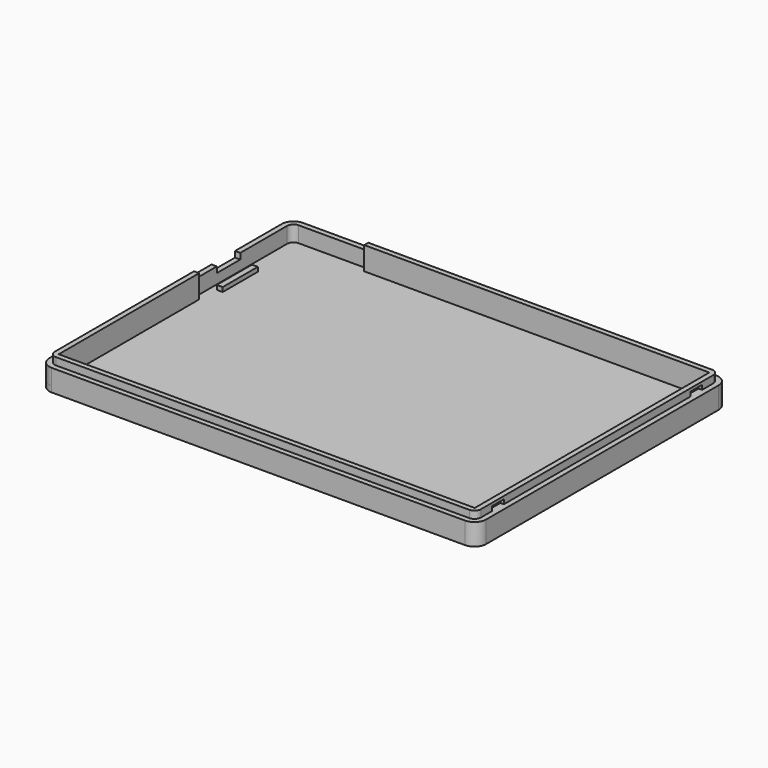
from build123d import *

# Parameters (mm, degrees)
PAD_DEPTH       = 2
PAD001_DEPTH    = 5.4
PAD002_DEPTH    = 7.9
SKETCH003_W     = 10
SKETCH003_H     = 2
POCKET_DEPTH    = 1.8
SKETCH004_W     = 2
SKETCH004_H     = 15
PAD003_DEPTH    = 1.5
SKETCH005_W     = 5
SKETCH005_H     = 1.5
POCKET001_DEPTH = 1.2
SKETCH006_W     = 5
SKETCH006_H     = 1.5
POCKET002_DEPTH = 1.2
SKETCH007_W     = 5
SKETCH007_H     = 1.5
POCKET003_DEPTH = 1.2


with BuildPart() as part:
    # Sketch → Pad (new body)
    with BuildSketch(Plane.XY):
        with BuildLine():
            Line((149.259997, 103.29), (149.259997, 4))
            ThreePointArc((145.259999, 0), (148.088425, 1.171573), (149.259997, 4))
            Line((3.999999, 0), (145.259999, 0))
            ThreePointArc((0, 4), (1.171572, 1.171573), (3.999999, 0))
            Line((0, 103.29), (0, 4))
            ThreePointArc((3.999997, 107.29), (1.171572, 106.118426), (0, 103.29))
            Line((3.999997, 107.29), (145.259997, 107.29))
            ThreePointArc((149.259997, 103.29), (148.088425, 106.118427), (145.259997, 107.29))
        make_face()
    extrude(amount=PAD_DEPTH)

    # Sketch001 (on Face10 of Pad) → Pad001 (join)
    with BuildSketch(Plane.XY.offset(2)):
        with BuildLine():
            ThreePointArc((149.259997, 103.29), (148.088425, 106.118427), (145.259997, 107.29))
            Line((3.999998, 107.29), (145.259997, 107.29))
            ThreePointArc((3.999998, 107.29), (1.171572, 106.118426), (0, 103.29))
            Line((0, 3.999998), (0, 103.29))
            ThreePointArc((0, 3.999998), (1.171573, 1.171573), (3.999999, 0))
            Line((145.259996, 0), (3.999999, 0))
            ThreePointArc((145.259996, 0), (148.088424, 1.171572), (149.259997, 4))
            Line((149.259997, 103.29), (149.259997, 4))
        make_face()
        with BuildLine():
            Line((3.999998, 105.49), (145.259995, 105.49))
            ThreePointArc((147.459997, 103.290002), (146.815631, 104.845636), (145.259995, 105.49))
            Line((147.459997, 4.000002), (147.459997, 103.290002))
            ThreePointArc((145.26, 1.8), (146.815634, 2.444367), (147.459997, 4.000002))
            Line((4.000003, 1.8), (145.26, 1.8))
            ThreePointArc((1.8, 3.999996), (2.444368, 2.444363), (4.000003, 1.8))
            Line((1.8, 103.289998), (1.8, 3.999996))
            ThreePointArc((3.999998, 105.49), (2.444364, 104.845634), (1.8, 103.289998))
        make_face(mode=Mode.SUBTRACT)
    extrude(amount=PAD001_DEPTH)

    # Sketch002 (on Face10 of Pad001) → Pad002 (join)
    with BuildSketch(Plane.XY.offset(2)):
        with BuildLine():
            Line((145.709997, 103.74), (145.709997, 3.55))
            Line((145.709997, 3.55), (3.55, 3.55))
            Line((3.55, 3.55), (3.55, 63.55))
            Line((3.55, 63.55), (1.8, 63.55))
            Line((1.8, 63.55), (1.8, 3.999996))
            ThreePointArc((1.8, 3.999996), (2.444368, 2.444363), (4.000003, 1.8))
            Line((4.000003, 1.8), (145.26, 1.8))
            ThreePointArc((145.26, 1.8), (146.815634, 2.444367), (147.459997, 4.000003))
            Line((147.459997, 4.000003), (147.459997, 103.290002))
            ThreePointArc((147.459997, 103.290002), (146.815631, 104.845636), (145.259995, 105.49))
            Line((145.259995, 105.49), (27.8, 105.49))
            Line((27.8, 105.49), (27.8, 103.74))
            Line((27.8, 103.74), (145.709997, 103.74))
        make_face()
    extrude(amount=PAD002_DEPTH)

    # Sketch003 (on Face5 of Pad002) → Pocket (cut)
    with BuildSketch(Plane(origin=(0, 0, 0), x_dir=(0, -1, 0), z_dir=(-1, 0, 0))):
        with Locations((-78.29, 6.4)):
            Rectangle(SKETCH003_W, SKETCH003_H)
    extrude(amount=-POCKET_DEPTH, mode=Mode.SUBTRACT)

    # Sketch004 (on Face24 of Pocket) → Pad003 (join)
    with BuildSketch(Plane.XY.offset(2)):
        with Locations((4.8, 78.29)):
            Rectangle(SKETCH004_W, SKETCH004_H)
    extrude(amount=PAD003_DEPTH)

    # Sketch005 (on Face13 of Pad003) → Pocket001 (cut)
    with BuildSketch(Plane.YZ.offset(147.459997)):
        with Locations((11.3, 8.15)):
            Rectangle(SKETCH005_W, SKETCH005_H)
        with Locations((95.99, 8.15)):
            Rectangle(SKETCH005_W, SKETCH005_H)
    extrude(amount=-POCKET001_DEPTH, mode=Mode.SUBTRACT)

    # Sketch006 (on Face18 of Pocket001) → Pocket002 (cut)
    with BuildSketch(Plane(origin=(1.8, 0, 0), x_dir=(0, -1, 0), z_dir=(-1, 0, 0))):
        with Locations((-54.05, 8.15)):
            Rectangle(SKETCH006_W, SKETCH006_H)
        with Locations((-11.3, 8.15)):
            Rectangle(SKETCH006_W, SKETCH006_H)
    extrude(amount=-POCKET002_DEPTH, mode=Mode.SUBTRACT)

    # Sketch007 (on Face21 of Pocket002) → Pocket003 (cut)
    with BuildSketch(Plane(origin=(0, 105.49, 0), x_dir=(-1, 0, 0), z_dir=(0, 1, 0))):
        with Locations((-37.3, 8.15)):
            Rectangle(SKETCH007_W, SKETCH007_H)
    extrude(amount=-POCKET003_DEPTH, mode=Mode.SUBTRACT)


solid = part.part
